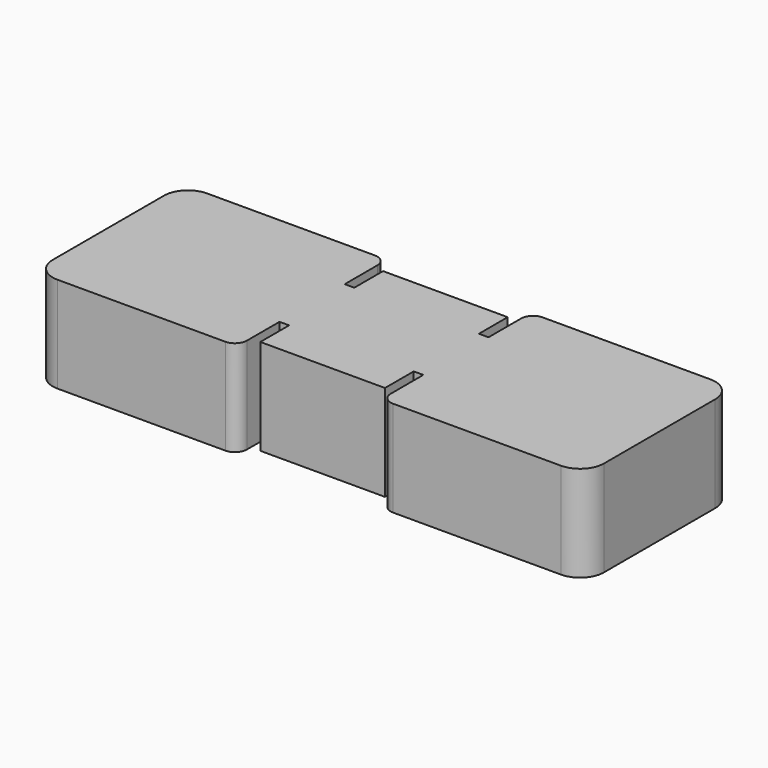
from build123d import *

# Parameters (mm, degrees)
F1_DEPTH = 10.16


with BuildPart() as f1:
    # F0 (on Top) → F1 (new body)
    with BuildSketch(Plane.XY):
        with BuildLine():
            Line((-29.21, 0), (0, 0))
            Line((0, 0), (0, 8.128))
            Line((0, 8.128), (-6.604, 8.128))
            Line((-6.604, 8.128), (-6.604, 4.318))
            Line((-6.604, 4.318), (-7.62, 4.318))
            Line((-7.62, 4.318), (-7.62, 5.334))
            Line((-7.62, 5.334), (-7.62, 8.636))
            ThreePointArc((-7.62, 8.636), (-7.991974, 9.534026), (-8.89, 9.906))
            Line((-8.89, 9.906), (-26.67, 9.906))
            ThreePointArc((-26.67, 9.906), (-28.466051, 9.162051), (-29.21, 7.366))
            Line((-29.21, 7.366), (-29.21, 0))
        make_face()
    extrude(amount=F1_DEPTH)

    # F2: F1 across face


with BuildPart() as f1_1:
    add(f1.part)
    add(f1.part.mirror(Plane(origin=(0, 4.064, 5.08), x_dir=(0, 1, 0), z_dir=(1, 0, 0))))

    # F3: F1 across face


with BuildPart() as f1_2:
    add(f1_1.part)
    add(f1_1.part.mirror(Plane(origin=(0, 0, 5.08), x_dir=(1, 0, 0), z_dir=(0, -1, 0))))


solid = f1_2.part
